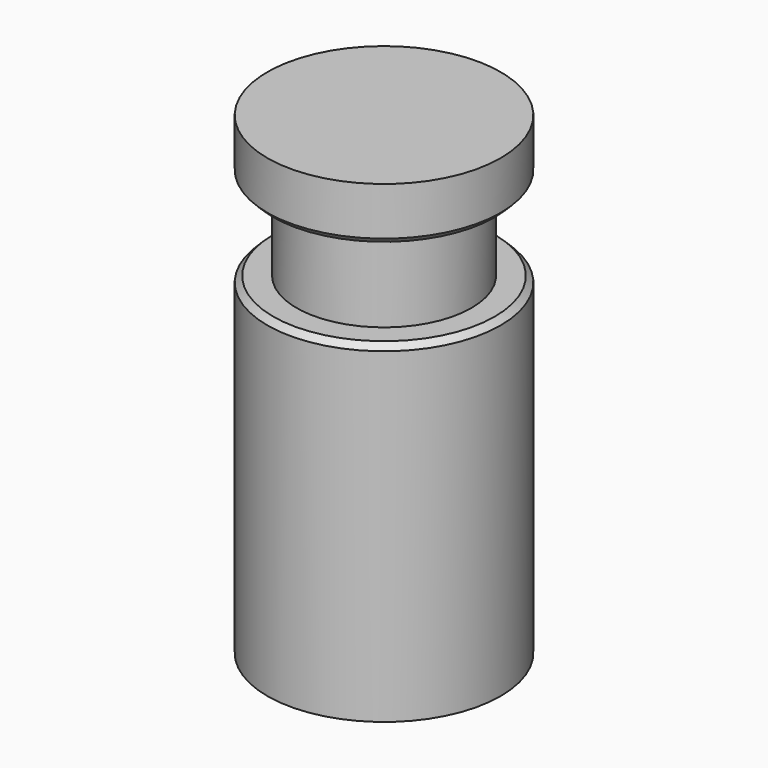
from build123d import *

# Parameters (mm, degrees)
F2_SIZE = 0.4


with BuildPart() as f1:
    # F0 (on Front) → F1 (revolve)
    with BuildSketch(Plane.XZ):
        with BuildLine():
            Line((8, 3), (8, 6.7))
            Line((8, 6.7), (0, 6.7))
            Line((0, 6.7), (0, -27))
            ThreePointArc((0, -27), (4.045674, -26.695178), (8, -25.787594))
            Line((8, -25.787594), (8, -6))
            Line((8, -6), (8, -3))
            Line((8, -3), (6, -3))
            Line((6, -3), (6, 3))
            Line((6, 3), (8, 3))
        make_face()
    revolve(axis=Axis((0, 0, 0), (0, 0, 1)))

    # F2
    f2_edges = [f1.edges().sort_by_distance(p)[0] for p in [
        (-8, 0, 3),
        (-8, 0, -3),
    ]]
    chamfer(f2_edges, length=F2_SIZE)


solid = f1.part
